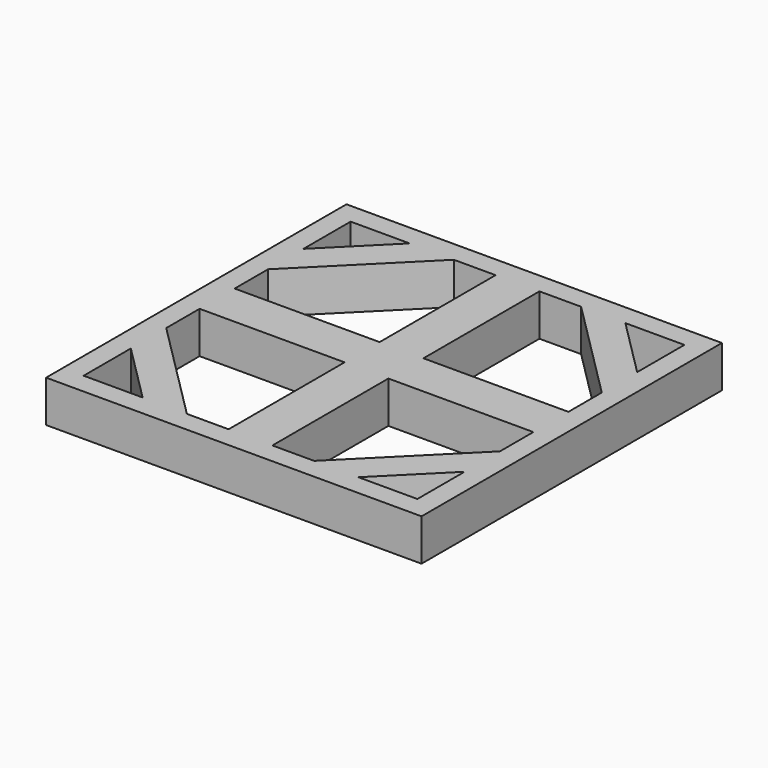
from build123d import *

# Parameters (mm, degrees)
F1_DEPTH = 50.8
F2_DEPTH = 50.8
F3_DEPTH = 50.8
F0_W     = 53.3528286101
F0_H     = 176.523585695
F0_W_2   = 176.523585695
F0_H_2   = 53.3528286101
F4_DEPTH = 50.8


with BuildPart() as f1:
    # F0 (on Top) → F1 (new body)
    with BuildSketch(Plane.XY):
        Polygon((-202.3678548309, 229.876414305), (-227.7678548309, 255.276414305), (-227.7678548309, -201.923585695), (-202.3678548309, -176.523585695), (-202.3678548309, -104.6815367264), (-202.3678548309, -50.8), (-202.3678548309, 0), (-202.3678548309, 53.3528286101), (-202.3678548309, 104.1528286101), (-202.3678548309, 158.0343653365), align=None)
        Polygon((-202.3678548309, -176.523585695), (-227.7678548309, -201.923585695), (229.4321451691, -201.923585695), (204.0321451691, -176.523585695), (132.1900962006, -176.523585695), (78.3085594741, -176.523585695), (27.5085594741, -176.523585695), (-25.8442691359, -176.523585695), (-76.6442691359, -176.523585695), (-130.5258058623, -176.523585695), align=None)
        Polygon((229.4321451691, -201.923585695), (229.4321451691, 255.276414305), (204.0321451691, 229.876414305), (204.0321451691, 158.0343653365), (204.0321451691, 104.1528286101), (204.0321451691, 53.3528286101), (204.0321451691, 0), (204.0321451691, -50.8), (204.0321451691, -104.6815367264), (204.0321451691, -176.523585695), align=None)
        Polygon((229.4321451691, 255.276414305), (-227.7678548309, 255.276414305), (-202.3678548309, 229.876414305), (-130.5258058623, 229.876414305), (-76.6442691359, 229.876414305), (-25.8442691359, 229.876414305), (27.5085594741, 229.876414305), (78.3085594741, 229.876414305), (132.1900962006, 229.876414305), (204.0321451691, 229.876414305), align=None)
    extrude(amount=F1_DEPTH)

    # F0 (on Top) → F2 (cut)
    with BuildSketch(Plane.XY):
        Polygon((-76.6442691359, 229.876414305), (-130.5258058623, 229.876414305), (-202.3678548309, 158.0343653365), (-202.3678548309, 104.1528286101), align=None)
    extrude(amount=F2_DEPTH, mode=Mode.SUBTRACT)

    # F0 (on Top) → F3 (join)
    with BuildSketch(Plane.XY):
        Polygon((132.1900962006, -176.523585695), (204.0321451691, -104.6815367264), (204.0321451691, -50.8), (78.3085594741, -176.523585695), align=None)
        Polygon((204.0321451691, 158.0343653365), (132.1900962006, 229.876414305), (78.3085594741, 229.876414305), (204.0321451691, 104.1528286101), align=None)
        Polygon((-76.6442691359, 229.876414305), (-130.5258058623, 229.876414305), (-202.3678548309, 158.0343653365), (-202.3678548309, 104.1528286101), align=None)
        Polygon((-202.3678548309, -104.6815367264), (-130.5258058623, -176.523585695), (-76.6442691359, -176.523585695), (-202.3678548309, -50.8), align=None)
    extrude(amount=F3_DEPTH)

    # F0 (on Top) → F4 (join)
    with BuildSketch(Plane.XY):
        with Locations((0.8321451691, -88.2617928475)):
            Rectangle(F0_W, F0_H)
        with Locations((115.7703523216, 26.676414305)):
            Rectangle(F0_W_2, F0_H_2)
        with Locations((0.8321451691, 141.6146214575)):
            Rectangle(F0_W, F0_H)
        with Locations((-114.1060619834, 26.676414305)):
            Rectangle(F0_W_2, F0_H_2)
        with Locations((0.8321451691, 26.676414305)):
            Rectangle(F0_W, F0_H_2)
    extrude(amount=F4_DEPTH)


solid = f1.part
